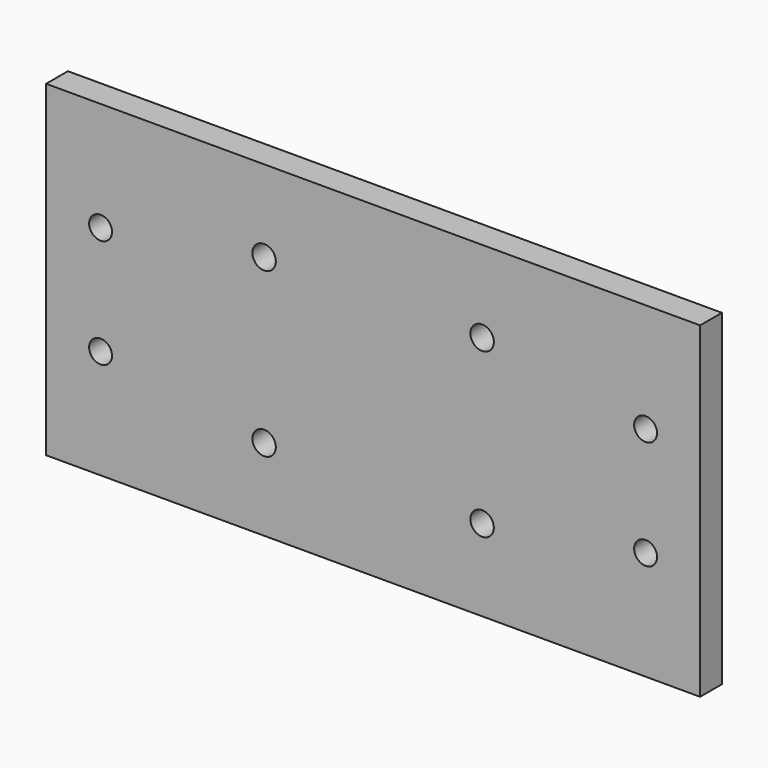
from build123d import *

# Parameters (mm, degrees)
F0_W     = 120
F0_H     = 60
F1_DEPTH = 5
F3_D     = 4.2
F5_D     = 4.3


with BuildPart() as f1:
    # F0 (on Front) → F1 (new body)
    with BuildSketch(Plane.XZ):
        with Locations((60, 30)):
            Rectangle(F0_W, F0_H)
    extrude(amount=F1_DEPTH)

    # F3 (through all)
    with Locations(Plane(origin=(0, 0, 0), x_dir=(1, 0, 0), z_dir=(0, 1, 0))):
        with Locations((10, -40), (10, -20), (110, -20), (110, -40)):
            Hole(F3_D / 2)

    # F5 (through all)
    with Locations(Plane(origin=(0, 0, 0), x_dir=(1, 0, 0), z_dir=(0, 1, 0))):
        with Locations((40, -45), (40, -15), (80, -15), (80, -45)):
            Hole(F5_D / 2)


solid = f1.part
